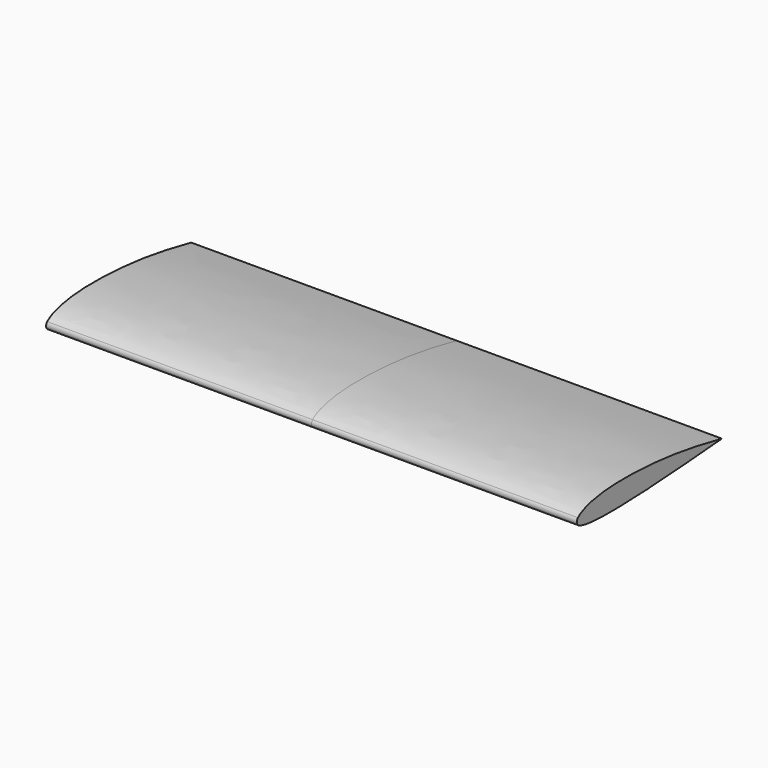
from build123d import *

# Parameters (mm, degrees)
F2_DEPTH = 300
F3_R     = 5


with BuildPart() as f2:
    # F1 (on Right) → F2 (new body, symmetric)
    with BuildSketch(Plane.YZ):
        with BuildLine():
            add(Edge.make_bspline(
                [(0, 12.7), (53.9880990982, 12.8515744582), (96.1325839162, 6.0179889969), (142.875, -3.82)],
                knots=[0, 0, 0, 0, 143.8268960417, 143.8268960417, 143.8268960417, 143.8268960417], degree=3))
            add(Edge.make_bspline(
                [(0, 12.7), (-23.9298121815, 12.6328157802), (-57.6894395053, 8.9672139828), (-63.5, -3.82)],
                knots=[0, 0, 0, 0, 65.613721126, 65.613721126, 65.613721126, 65.613721126], degree=3))
            add(Edge.make_bspline(
                [(-63.5, -3.82), (-61.2145140767, -12.648136355), (15.6238259808, -14.3385472386), (89.9784881596, -7.9191755216), (142.875, -3.82)],
                knots=[0, 0, 0, 0, 0.4009310626, 1, 1, 1, 1], degree=3))
        make_face()
    extrude(amount=F2_DEPTH, both=True)

    # F3
    f3_edges = [f2.edges().sort_by_distance(p)[0] for p in [
        (-150, -63.5, -3.82),
        (150, -63.5, -3.82),
    ]]
    fillet(f3_edges, radius=F3_R)


solid = f2.part
